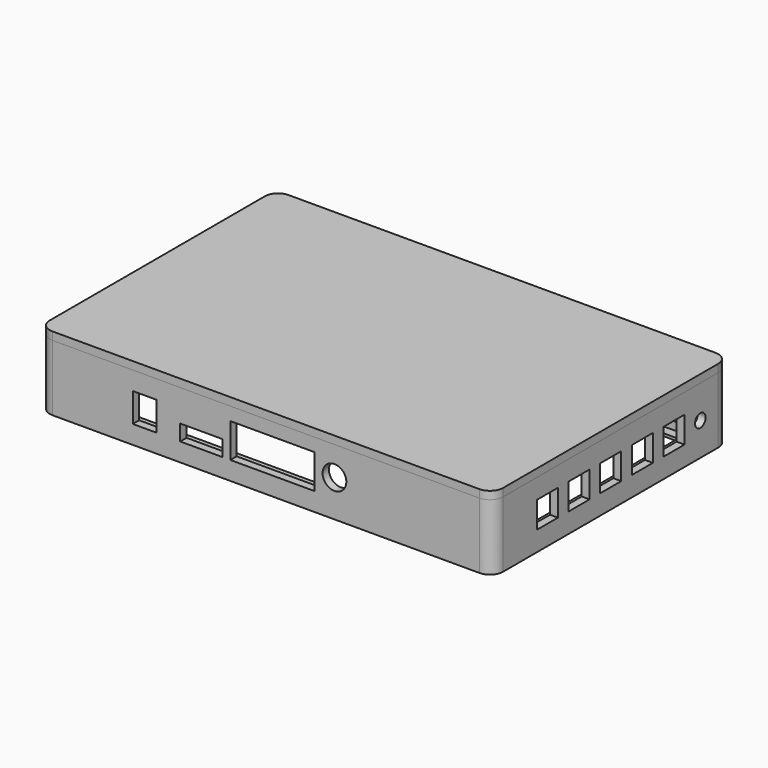
from build123d import *

# Parameters (mm, degrees)
F0_W      = 160
F0_H      = 100
F0_W_2    = 151.52
F0_H_2    = 88.96
F1_DEPTH  = 1
F2_DEPTH  = 4
F0_R      = 1.25
F3_DEPTH  = 25
F4_DEPTH  = 4
F5_DEPTH  = 4
F6_DEPTH  = 4
F7_DEPTH  = 4
F8_W      = 9
F8_H      = 11
F8_W_2    = 16
F8_H_2    = 6
F8_W_3    = 32
F8_H_3    = 13
F8_R      = 4.5
F9_DEPTH  = 25
F11_R     = 1.2
F12_DEPTH = 3
F13_DEPTH = 20
F14_W     = 10
F14_H     = 10
F14_R     = 2.5
F15_DEPTH = 25


with BuildPart() as f1:
    # F0 (on Top) → F1 (new body)
    with BuildSketch(Plane.XY):
        Rectangle(F0_W, F0_H)
        with Locations((-1.48, 2.08)):
            Rectangle(F0_W_2, F0_H_2, mode=Mode.SUBTRACT)
    extrude(amount=F1_DEPTH)

    # F0 (on Top) → F2 (join)
    with BuildSketch(Plane.XY):
        with BuildLine():
            Line((80.5, 53), (-80.5, 53))
            ThreePointArc((-80.5, 53), (-81.232233, 51.232233), (-83, 50.5))
            Line((-83, 50.5), (-83, -50.5))
            ThreePointArc((-83, -50.5), (-81.232233, -51.232233), (-80.5, -53))
            Line((-80.5, -53), (80.5, -53))
            ThreePointArc((80.5, -53), (81.232233, -51.232233), (83, -50.5))
            Line((83, -50.5), (83, 50.5))
            ThreePointArc((83, 50.5), (81.232233, 51.232233), (80.5, 53))
        make_face()
        Rectangle(F0_W, F0_H, mode=Mode.SUBTRACT)
    extrude(amount=F2_DEPTH)

    # F0 (on Top) → F3 (join)
    with BuildSketch(Plane.XY):
        with BuildLine():
            Line((81, 56), (-81, 56))
            ThreePointArc((-81, 56), (-84.535534, 54.535534), (-86, 51))
            Line((-86, 51), (-86, -51))
            ThreePointArc((-86, -51), (-84.535534, -54.535534), (-81, -56))
            Line((-81, -56), (81, -56))
            ThreePointArc((81, -56), (84.535534, -54.535534), (86, -51))
            Line((86, -51), (86, 51))
            ThreePointArc((86, 51), (84.535534, 54.535534), (81, 56))
        make_face()
        with Locations((-83, -53)):
            Circle(F0_R, mode=Mode.SUBTRACT)
        with Locations((83, -53)):
            Circle(F0_R, mode=Mode.SUBTRACT)
        with Locations((-83, 53)):
            Circle(F0_R, mode=Mode.SUBTRACT)
        with BuildLine():
            ThreePointArc((-83, 50.5), (-81.232233, 51.232233), (-80.5, 53))
            Line((-80.5, 53), (80.5, 53))
            ThreePointArc((80.5, 53), (81.232233, 51.232233), (83, 50.5))
            Line((83, 50.5), (83, -50.5))
            ThreePointArc((83, -50.5), (81.232233, -51.232233), (80.5, -53))
            Line((80.5, -53), (-80.5, -53))
            ThreePointArc((-80.5, -53), (-81.232233, -51.232233), (-83, -50.5))
            Line((-83, -50.5), (-83, 50.5))
        make_face(mode=Mode.SUBTRACT)
        with Locations((83, 53)):
            Circle(F0_R, mode=Mode.SUBTRACT)
    extrude(amount=F3_DEPTH)

    # F0 (on Top) → F4 (join)
    with BuildSketch(Plane.XY):
        with Locations((-83, 53)):
            Circle(F0_R)
    extrude(amount=F4_DEPTH)

    # F0 (on Top) → F5 (join)
    with BuildSketch(Plane.XY):
        with Locations((-83, -53)):
            Circle(F0_R)
    extrude(amount=F5_DEPTH)

    # F0 (on Top) → F6 (join)
    with BuildSketch(Plane.XY):
        with Locations((83, -53)):
            Circle(F0_R)
    extrude(amount=F6_DEPTH)

    # F0 (on Top) → F7 (join)
    with BuildSketch(Plane.XY):
        with Locations((83, 53)):
            Circle(F0_R)
    extrude(amount=F7_DEPTH)

    # F8 (on face) → F9 (cut)
    with BuildSketch(Plane(origin=(0, -53, 0), x_dir=(-1, 0, 0), z_dir=(0, 1, 0))):
        with Locations((46, 12.5)):
            Rectangle(F8_W, F8_H)
        with Locations((24.5, 10)):
            Rectangle(F8_W_2, F8_H_2)
        with Locations((-2.5, 13.5)):
            Rectangle(F8_W_3, F8_H_3)
        with Locations((-26, 14)):
            Circle(F8_R)
    extrude(amount=-F9_DEPTH, mode=Mode.SUBTRACT)

    # F14 (on face) → F15 (cut)
    with BuildSketch(Plane.YZ.offset(86)):
        with Locations((-30, 12.5)):
            Rectangle(F14_W, F14_H)
        with Locations((-15, 12.5)):
            Rectangle(F14_W, F14_H)
        with Locations((0, 12.5)):
            Rectangle(F14_W, F14_H)
        with Locations((15, 12.5)):
            Rectangle(F14_W, F14_H)
        with Locations((30, 12.5)):
            Rectangle(F14_W, F14_H)
        with Locations((42.5, 12.5)):
            Circle(F14_R)
    extrude(amount=-F15_DEPTH, mode=Mode.SUBTRACT)


with BuildPart() as f12:
    # F11 (on offset) → F12 (new body)
    with BuildSketch(Plane.XY.offset(25)):
        with BuildLine():
            ThreePointArc((86, 51), (84.535534, 54.535534), (81, 56))
            Line((81, 56), (-81, 56))
            ThreePointArc((-81, 56), (-84.535534, 54.535534), (-86, 51))
            Line((-86, 51), (-86, -51))
            ThreePointArc((-86, -51), (-84.535534, -54.535534), (-81, -56))
            Line((-81, -56), (81, -56))
            ThreePointArc((81, -56), (84.535534, -54.535534), (86, -51))
            Line((86, -51), (86, 51))
        make_face()
        with Locations((-83, -53)):
            Circle(F11_R, mode=Mode.SUBTRACT)
        with Locations((83, -53)):
            Circle(F11_R, mode=Mode.SUBTRACT)
        with Locations((-83, 53)):
            Circle(F11_R, mode=Mode.SUBTRACT)
        with Locations((83, 53)):
            Circle(F11_R, mode=Mode.SUBTRACT)
        with Locations((-83, -53)):
            Circle(F11_R)
        with Locations((83, -53)):
            Circle(F11_R)
        with Locations((83, 53)):
            Circle(F11_R)
        with Locations((-83, 53)):
            Circle(F11_R)
    extrude(amount=F12_DEPTH)

    # F11 (on offset) → F13 (join)
    with BuildSketch(Plane.XY.offset(25)):
        with Locations((-83, 53)):
            Circle(F11_R)
        with Locations((83, 53)):
            Circle(F11_R)
        with Locations((83, -53)):
            Circle(F11_R)
        with Locations((-83, -53)):
            Circle(F11_R)
    extrude(amount=-F13_DEPTH)


solid = Compound([f1.part, f12.part])
